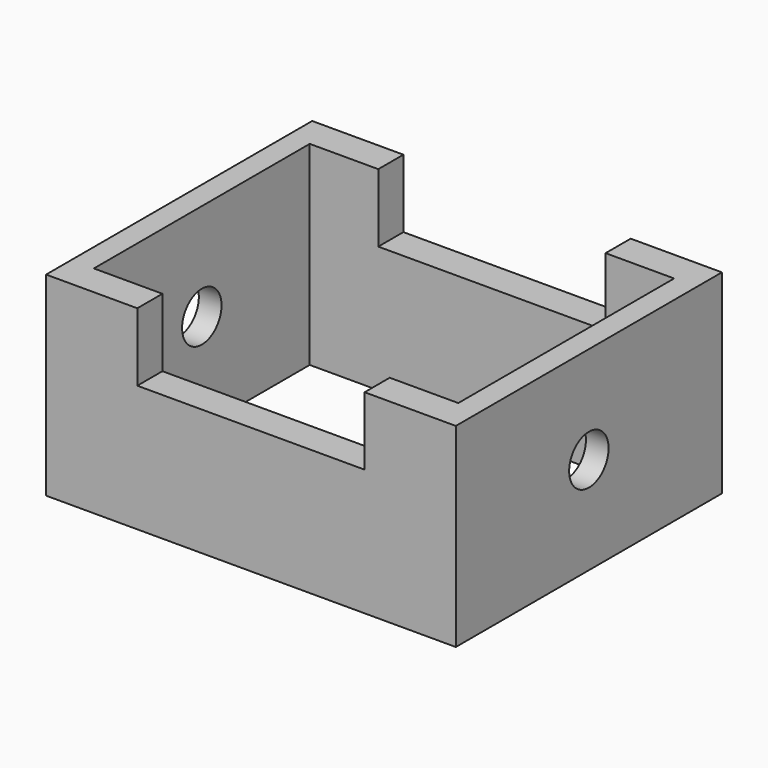
from build123d import *

# Parameters (mm, degrees)
F0_W     = 133.668438
F0_H     = 108.508282
F1_DEPTH = 63.5
F2_R     = 8.039935
F3_DEPTH = 133.669438
F4_W     = 118.878834
F4_H     = 88.022954
F5_DEPTH = 63.501
F6_W     = 74.149776
F6_H     = 22.239236
F7_DEPTH = 108.509281


with BuildPart() as f1:
    # F0 (on Top) → F1 (new body)
    with BuildSketch(Plane.XY):
        Rectangle(F0_W, F0_H)
    extrude(amount=F1_DEPTH)

    # F2 (on face) → F3 (cut, through all)
    with BuildSketch(Plane.YZ.offset(66.834219)):
        with Locations((0, 31.75)):
            Circle(F2_R)
    extrude(amount=-F3_DEPTH, mode=Mode.SUBTRACT)

    # F4 (on face) → F5 (cut, through all)
    with BuildSketch(Plane.XY.offset(63.5)):
        Rectangle(F4_W, F4_H)
    extrude(amount=-F5_DEPTH, mode=Mode.SUBTRACT)

    # F6 (on face) → F7 (cut, through all)
    with BuildSketch(Plane.XZ.offset(54.254141)):
        with Locations((-2e-06, 52.380382)):
            Rectangle(F6_W, F6_H)
    extrude(amount=-F7_DEPTH, mode=Mode.SUBTRACT)


solid = f1.part
